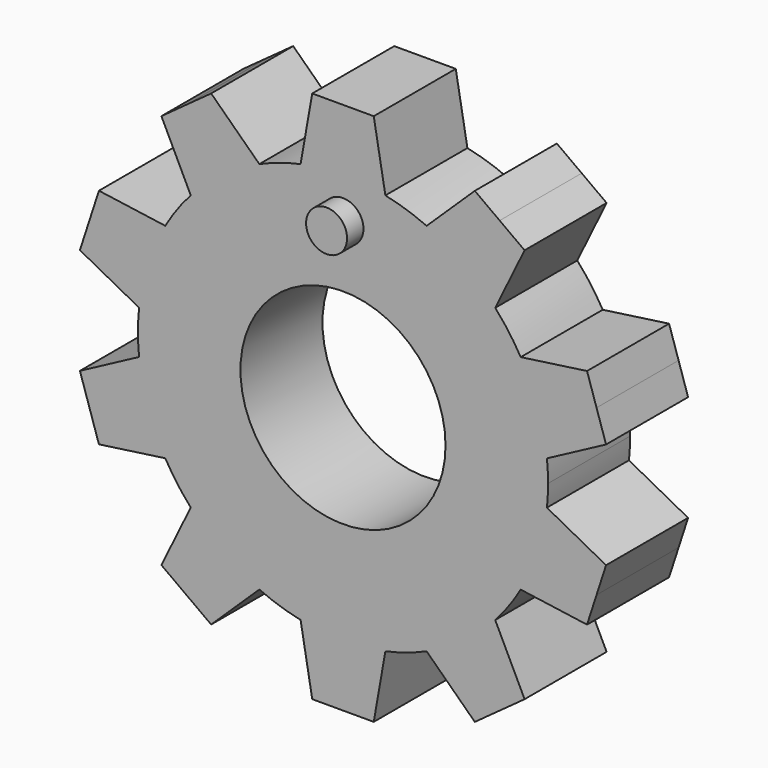
from build123d import *

# Parameters (mm, degrees)
F0_R     = 5
F1_DEPTH = 5
F2_R     = 1
F3_DEPTH = 1


with BuildPart() as f1:
    # F0 (on Front) → F1 (new body)
    with BuildSketch(Plane.XZ):
        with BuildLine():
            ThreePointArc((9.943923, -1.057539), (9.985971, -0.529512), (10, 0))
            ThreePointArc((10, 0), (9.985971, 0.529512), (9.943923, 1.057539))
            ThreePointArc((9.943923, 1.057539), (9.510565, 3.09017), (8.666409, 4.989325))
            ThreePointArc((8.666409, 4.989325), (8.09017, 5.877853), (7.423197, 6.700458))
            ThreePointArc((7.423197, 6.700458), (5.877853, 8.09017), (4.07862, 9.130436))
            ThreePointArc((4.07862, 9.130436), (3.09017, 9.510565), (2.067062, 9.784031))
            ThreePointArc((2.067062, 9.784031), (0, 10), (-2.067062, 9.784031))
            ThreePointArc((-2.067062, 9.784031), (-3.09017, 9.510565), (-4.07862, 9.130436))
            ThreePointArc((-4.07862, 9.130436), (-5.877853, 8.09017), (-7.423197, 6.700458))
            ThreePointArc((-7.423197, 6.700458), (-8.09017, 5.877853), (-8.666409, 4.989325))
            ThreePointArc((-8.666409, 4.989325), (-9.510565, 3.09017), (-9.943923, 1.057539))
            ThreePointArc((-9.943923, 1.057539), (-10, 0), (-9.943923, -1.057539))
            ThreePointArc((-9.943923, -1.057539), (-9.510565, -3.09017), (-8.666409, -4.989325))
            ThreePointArc((-8.666409, -4.989325), (-8.09017, -5.877853), (-7.423197, -6.700458))
            ThreePointArc((-7.423197, -6.700458), (-5.877853, -8.09017), (-4.07862, -9.130436))
            ThreePointArc((-4.07862, -9.130436), (-3.09017, -9.510565), (-2.067062, -9.784031))
            ThreePointArc((-2.067062, -9.784031), (0, -10), (2.067062, -9.784031))
            ThreePointArc((2.067062, -9.784031), (3.09017, -9.510565), (4.07862, -9.130436))
            ThreePointArc((4.07862, -9.130436), (5.877853, -8.09017), (7.423197, -6.700458))
            ThreePointArc((7.423197, -6.700458), (8.09017, -5.877853), (8.666409, -4.989325))
            ThreePointArc((8.666409, -4.989325), (9.510565, -3.09017), (9.943923, -1.057539))
        make_face()
        Circle(F0_R, mode=Mode.SUBTRACT)
        with BuildLine():
            ThreePointArc((8.666409, 4.989325), (9.510565, 3.09017), (9.943923, 1.057539))
            Line((9.943923, 1.057539), (12.82726, 2.590636))
            Line((12.82726, 2.590636), (12.363735, 4.017221))
            Line((12.363735, 4.017221), (11.900209, 5.443806))
            Line((11.900209, 5.443806), (8.666409, 4.989325))
        make_face()
        with BuildLine():
            Line((12.82726, -2.590636), (9.943923, -1.057539))
            ThreePointArc((9.943923, -1.057539), (9.510565, -3.09017), (8.666409, -4.989325))
            Line((8.666409, -4.989325), (11.900209, -5.443806))
            Line((11.900209, -5.443806), (12.363735, -4.017221))
            Line((12.363735, -4.017221), (12.82726, -2.590636))
        make_face()
        with BuildLine():
            ThreePointArc((4.07862, 9.130436), (5.877853, 8.09017), (7.423197, 6.700458))
            Line((7.423197, 6.700458), (8.854734, 9.635543))
            Line((8.854734, 9.635543), (7.641208, 10.517221))
            Line((7.641208, 10.517221), (6.427683, 11.398899))
            Line((6.427683, 11.398899), (4.07862, 9.130436))
        make_face()
        with BuildLine():
            Line((8.854734, -9.635543), (7.423197, -6.700458))
            ThreePointArc((7.423197, -6.700458), (5.877853, -8.09017), (4.07862, -9.130436))
            Line((4.07862, -9.130436), (6.427683, -11.398899))
            Line((6.427683, -11.398899), (7.641208, -10.517221))
            Line((7.641208, -10.517221), (8.854734, -9.635543))
        make_face()
        with BuildLine():
            ThreePointArc((-2.067062, 9.784031), (0, 10), (2.067062, 9.784031))
            Line((2.067062, 9.784031), (1.5, 13))
            Line((1.5, 13), (0, 13))
            Line((0, 13), (-1.5, 13))
            Line((-1.5, 13), (-2.067062, 9.784031))
        make_face()
        with BuildLine():
            Line((1.5, -13), (2.067062, -9.784031))
            ThreePointArc((2.067062, -9.784031), (0, -10), (-2.067062, -9.784031))
            Line((-2.067062, -9.784031), (-1.5, -13))
            Line((-1.5, -13), (0, -13))
            Line((0, -13), (1.5, -13))
        make_face()
        with BuildLine():
            ThreePointArc((-7.423197, 6.700458), (-5.877853, 8.09017), (-4.07862, 9.130436))
            Line((-4.07862, 9.130436), (-6.427683, 11.398899))
            Line((-6.427683, 11.398899), (-7.641208, 10.517221))
            Line((-7.641208, 10.517221), (-8.854734, 9.635543))
            Line((-8.854734, 9.635543), (-7.423197, 6.700458))
        make_face()
        with BuildLine():
            Line((-6.427683, -11.398899), (-4.07862, -9.130436))
            ThreePointArc((-4.07862, -9.130436), (-5.877853, -8.09017), (-7.423197, -6.700458))
            Line((-7.423197, -6.700458), (-8.854734, -9.635543))
            Line((-8.854734, -9.635543), (-7.641208, -10.517221))
            Line((-7.641208, -10.517221), (-6.427683, -11.398899))
        make_face()
        with BuildLine():
            ThreePointArc((-9.943923, 1.057539), (-9.510565, 3.09017), (-8.666409, 4.989325))
            Line((-8.666409, 4.989325), (-11.900209, 5.443806))
            Line((-11.900209, 5.443806), (-12.363735, 4.017221))
            Line((-12.363735, 4.017221), (-12.82726, 2.590636))
            Line((-12.82726, 2.590636), (-9.943923, 1.057539))
        make_face()
        with BuildLine():
            Line((-11.900209, -5.443806), (-8.666409, -4.989325))
            ThreePointArc((-8.666409, -4.989325), (-9.510565, -3.09017), (-9.943923, -1.057539))
            Line((-9.943923, -1.057539), (-12.82726, -2.590636))
            Line((-12.82726, -2.590636), (-12.363735, -4.017221))
            Line((-12.363735, -4.017221), (-11.900209, -5.443806))
        make_face()
    extrude(amount=F1_DEPTH)

    # F2 (on face) → F3 (join)
    with BuildSketch(Plane.XZ.offset(5)):
        with Locations((0, 8)):
            Circle(F2_R)
    extrude(amount=F3_DEPTH)


solid = f1.part
